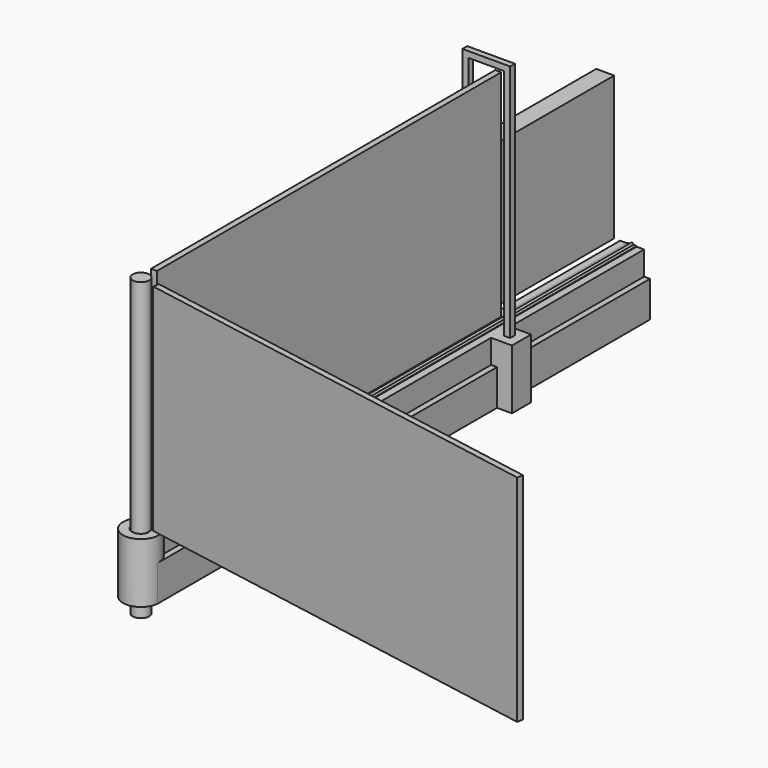
from build123d import *

# Parameters (mm, degrees)
F0_R           = 0.25
F1_DEPTH       = 200
F1_DEPTH_BACK  = 6
F2_DEPTH       = 200
F3_W           = 8
F3_H           = 20
F4_DEPTH       = 5
F5_R           = 6
F5_R_2         = 3
F6_DEPTH       = 20
F7_W           = 6
F7_H           = 48
F8_DEPTH       = 64
F10_START      = -3
F10_DEPTH      = 2
F11_W          = 2
F11_H          = 72
F12_DEPTH      = 144
F14_START      = 2
F14_DEPTH      = 72
F15_R          = 2.75
F16_DEPTH      = 74
F16_DEPTH_BACK = 25


with BuildPart() as f1:
    # F0 (on Front) → F1 (new body, two sides)
    with BuildSketch(Plane.XZ) as f1_sk:
        Polygon((4.5, 0), (2, 0), (2, -8), (10, -8), (10, 0), (7.5, 0), align=None)
        with Locations((6, -4)):
            Circle(F0_R, mode=Mode.SUBTRACT)
        Polygon((10, -8), (2, -8), (0, -8), (0, -20), (12, -20), (12, -8), align=None)
        with Locations((3, -17)):
            Circle(F0_R, mode=Mode.SUBTRACT)
        with Locations((9, -17)):
            Circle(F0_R, mode=Mode.SUBTRACT)
    extrude(amount=-F1_DEPTH)
    extrude(f1_sk.sketch, amount=F1_DEPTH_BACK)

    # F0 (on Front) → F2 (join)
    with BuildSketch(Plane.XZ):
        with Locations((3, -17)):
            Circle(F0_R)
        with Locations((9, -17)):
            Circle(F0_R)
        with Locations((6, -4)):
            Circle(F0_R)
        Polygon((4.5, 0.2), (4.5, 0), (7.5, 0), (7.5, 0.2), (6.4108157787, 0.2), (5.5891842213, 0.2), align=None)
    extrude(amount=-F2_DEPTH)

    # F0 (on Front) → F2, piece 2 (join)
    with BuildSketch(Plane.XZ):
        Polygon((5.4696699141, 0.3195143072), (5.5891842213, 0.2), (6, 0.6108157787), (6.4108157787, 0.2), (6.5303300859, 0.3195143072), (6, 0.8498443931), align=None)
    extrude(amount=-F2_DEPTH)

    # F3 (on face) → F4 (join, symmetric)
    with BuildSketch(Plane.YZ.offset(12)):
        with Locations((140, -10)):
            Rectangle(F3_W, F3_H)
    extrude(amount=F4_DEPTH, both=True)


with BuildPart() as f6:
    # F5 (on Top) → F6 (new body)
    with BuildSketch(Plane.XY):
        with Locations((6, -5.4592969827)):
            Circle(F5_R)
        with Locations((6, -5.4592969827)):
            Circle(F5_R_2, mode=Mode.SUBTRACT)
    extrude(amount=-F6_DEPTH)


with BuildPart() as f8:
    # F7 (on face) → F8 (new body)
    with BuildSketch(Plane.XZ.offset(-136)):
        with Locations((-3, 24)):
            Rectangle(F7_W, F7_H)
    extrude(amount=-F8_DEPTH)


with BuildPart() as f10:
    # F9 (on face) → F10 (new body)
    with BuildSketch(Plane.XZ.offset(-136).offset(F10_START)):
        Polygon((-2, 48), (0, 48), (0, 78), (12, 78), (12, 0), (14, 0), (14, 80), (-2, 80), align=None)
    extrude(amount=-F10_DEPTH)


with BuildPart() as f12:
    # F11 (on Front) → F12 (new body)
    with BuildSketch(Plane.XZ):
        with Locations((6, 38)):
            Rectangle(F11_W, F11_H)
    extrude(amount=-F12_DEPTH)


with BuildPart() as f14:
    # F13 (on Top) → F14 (new body)
    with BuildSketch(Plane.XY.offset(F14_START)):
        Polygon((153.8948111295, -30.5217158798), (12.0824946957, -5.5163782957), (11.7351983404, -7.4859938017), (153.5475147742, -32.4913313858), align=None)
    extrude(amount=F14_DEPTH)


with BuildPart() as f16:
    # F15 (on Top) → F16 (new body, two sides)
    with BuildSketch(Plane.XY) as f16_sk:
        with Locations((6, -5.4592969827)):
            Circle(F15_R)
    extrude(amount=F16_DEPTH)
    extrude(f16_sk.sketch, amount=-F16_DEPTH_BACK)


solid = Compound([f1.part, f6.part, f8.part, f10.part, f12.part, f14.part, f16.part])
